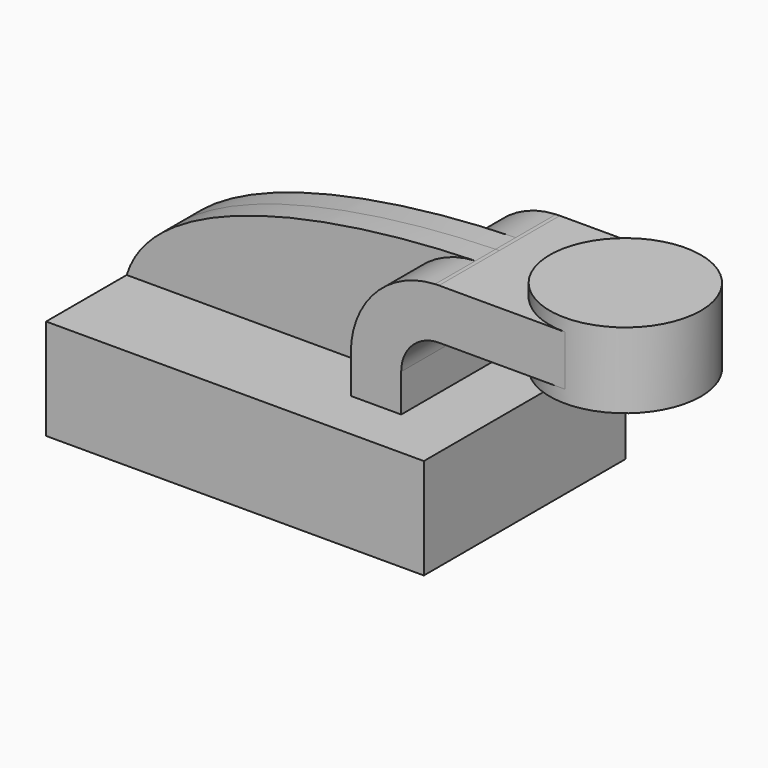
from build123d import *

# Parameters (mm, degrees)
F1_DEPTH = 50
F0_W     = 30
F0_H     = 20
F2_DEPTH = 30
F4_DEPTH = 10


with BuildPart() as f1:
    # F0 (on Front) → F1 (new body, symmetric)
    with BuildSketch(Plane.XZ):
        Polygon((30, 20), (-75, 20), (-75, -20), (75, -20), (75, 20), (50, 20), align=None)
    extrude(amount=F1_DEPTH, both=True)

    # F0 (on Front) → F2 (join, symmetric)
    with BuildSketch(Plane.XZ):
        with BuildLine():
            Line((30, 35), (30, 20))
            Line((30, 20), (50, 20))
            Line((50, 20), (50, 35))
            ThreePointArc((50, 35), (54.3933982822, 45.6066017178), (65, 50))
            Line((65, 50), (85, 50))
            Line((85, 50), (85, 70))
            Line((85, 70), (65, 70))
            add(Edge.make_bspline(
                [(63.4724068362, 69.9666478108), (63.9831880061, 69.9787764937), (64.4924072773, 69.9898908886), (65, 70)],
                knots=[147.2868078235, 147.2868078235, 147.2868078235, 147.2868078235, 148.6606874732, 148.6606874732, 148.6606874732, 148.6606874732], degree=3))
            ThreePointArc((63.4724068362, 69.9666478108), (39.7169447976, 59.2026262962), (30, 35))
        make_face()
        with Locations((100, 60)):
            Rectangle(F0_W, F0_H)
    extrude(amount=F2_DEPTH, both=True)

    # F0 (on Front) → F3 (revolve)
    with BuildSketch(Plane.XZ):
        Polygon((115, 75), (115, 70), (115, 50), (115, 45), (145, 45), (145, 75), align=None)
    revolve(axis=Axis((115, 0, 60), (0, 0, 1)))

    # F0 (on Front) → F4 (join, symmetric)
    with BuildSketch(Plane.XZ):
        with BuildLine():
            add(Edge.make_bspline(
                [(-75, 20), (-63.9949885725, 55.7090067292), (8.7140966472, 68.6663920064), (63.4724068362, 69.9666478108)],
                knots=[0, 0, 0, 0, 147.2868078235, 147.2868078235, 147.2868078235, 147.2868078235], degree=3))
            Line((-75, 20), (30, 20))
            Line((30, 20), (30, 35))
            ThreePointArc((30, 35), (39.7169447976, 59.2026262962), (63.4724068362, 69.9666478108))
        make_face()
    extrude(amount=F4_DEPTH, both=True)


solid = f1.part
